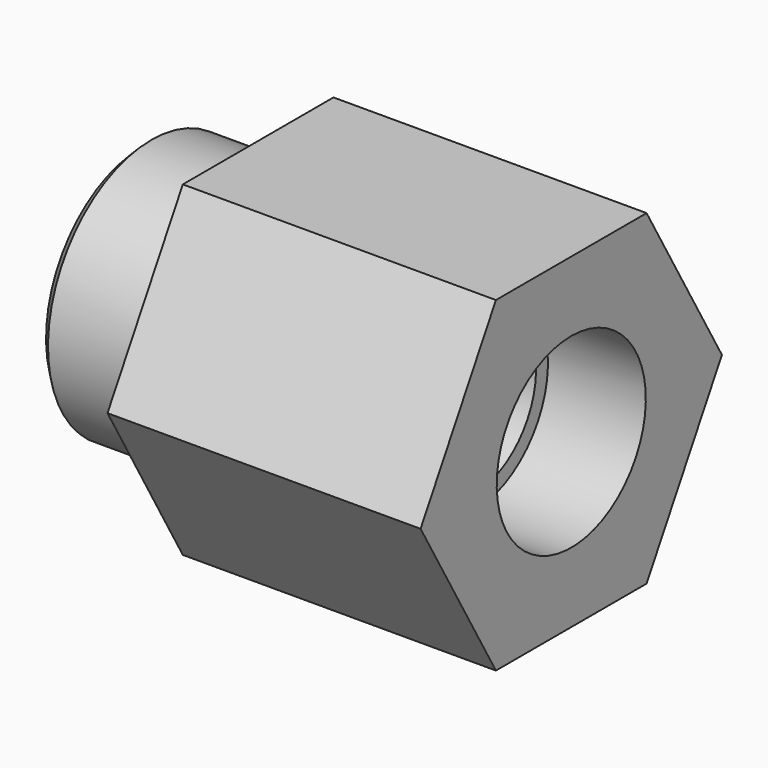
from build123d import *

# Parameters (mm, degrees)
F2_R     = 20
F3_DEPTH = 43.901
F4_SIZE  = 1


with BuildPart() as f1:
    # F0 (on Front) → F1 (revolve)
    with BuildSketch(Plane.XZ):
        Polygon((33.9, 9.525), (43.9, 9.525), (43.9, 20), (11.9, 20), (11.9, 13.225), (0, 13.225), (0, 9.525), (11.2, 9.525), (11.2, 8), (33.9, 8), align=None)
    revolve(axis=Axis((21.95, 0, 0), (1, 0, 0)))

    # F2 (on face) → F3 (cut, through all)
    with BuildSketch(Plane.YZ.offset(43.9)):
        Circle(F2_R)
        Polygon((-9.624429, 16.67), (9.624429, 16.67), (19.248858, 0), (9.624429, -16.67), (-9.624429, -16.67), (-19.248858, 0), align=None, mode=Mode.SUBTRACT)
    extrude(amount=-F3_DEPTH, mode=Mode.SUBTRACT)

    # F4
    f4_edges = [f1.edges().sort_by_distance(p)[0] for p in [
        (0, 0, -13.225),
    ]]
    chamfer(f4_edges, length=F4_SIZE)


solid = f1.part
